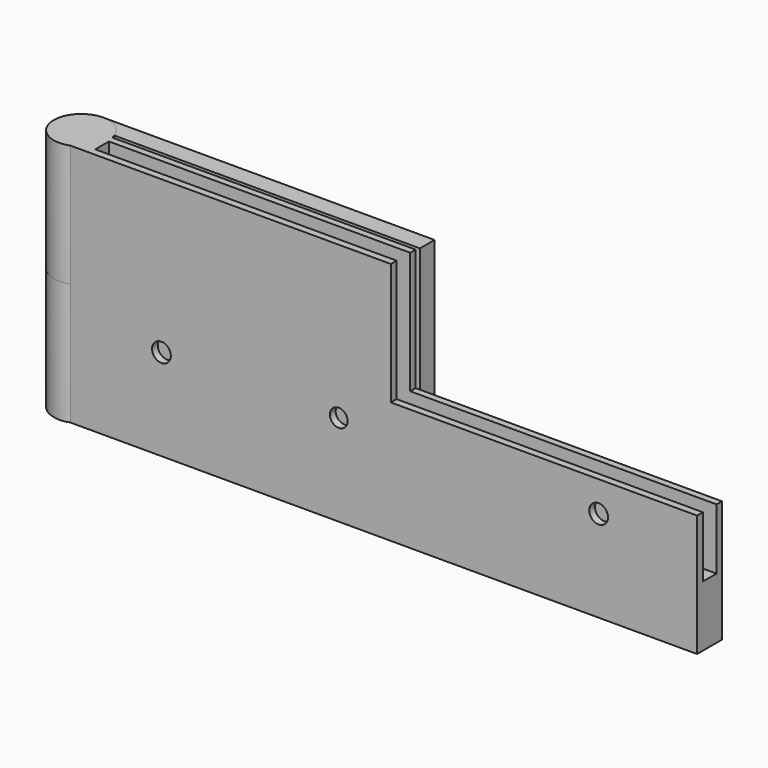
from build123d import *

# Parameters (mm, degrees)
PAD001_DEPTH    = 40
SKETCH002_R     = 4.5
POCKET_DEPTH    = 20
SKETCH003_R     = 2.507414
POCKET001_DEPTH = 15
SKETCH004_W     = 50.2480836792
SKETCH004_H     = 5.09126423
POCKET002_DEPTH = 20
SKETCH005_W     = 99.6843096792
SKETCH005_H     = 2.8
POCKET003_DEPTH = 30
PAD_DEPTH       = 40
SKETCH006_R     = 1.486591
SKETCH006_R_2   = 1.457401
SKETCH006_R_3   = 1.490716
SKETCH006_R_4   = 1.490718
POCKET004_DEPTH = 3.001
CHAMFER_SIZE    = 1
SKETCH007_R     = 1.543073
SKETCH007_R_2   = 1.45762
POCKET005_DEPTH = 8.7097898162


with BuildPart() as obj1:
    # Sketch001 → Pad001 (new body)
    with BuildSketch(Plane.XY):
        with BuildLine():
            ThreePointArc((4.4126226792, 0.8824744139), (-3.9364511507, 2.1804477381), (1.5925100576, -4.2087898162))
            Line((104.4126226792, -4.2087898162), (1.5925100576, -4.2087898162))
            Line((104.4126226792, 0.8824744139), (104.4126226792, -4.2087898162))
            Line((4.4126226792, 0.8824744139), (104.4126226792, 0.8824744139))
        make_face()
    extrude(amount=-PAD001_DEPTH)

    # Sketch002 → Pocket (cut)
    with BuildSketch(Plane(origin=(0, 0, -40), x_dir=(1, 0, 0), z_dir=(0, 0, -1))):
        Circle(SKETCH002_R)
    extrude(amount=-POCKET_DEPTH, mode=Mode.SUBTRACT)

    # Sketch003 → Pocket001 (cut)
    with BuildSketch(Plane(origin=(0, 0, -20), x_dir=(1, 0, 0), z_dir=(0, 0, -1))):
        Circle(SKETCH003_R)
    extrude(amount=-POCKET001_DEPTH, mode=Mode.SUBTRACT)

    # Sketch004 → Pocket002 (cut)
    with BuildSketch(Plane.XY):
        with Locations((79.2885808396, -1.6631577011)):
            Rectangle(SKETCH004_W, SKETCH004_H)
    extrude(amount=-POCKET002_DEPTH, mode=Mode.SUBTRACT)

    # Sketch005 → Pocket003 (cut)
    with BuildSketch(Plane.XY):
        with Locations((54.5704678396, -1.627362)):
            Rectangle(SKETCH005_W, SKETCH005_H)
    extrude(amount=-POCKET003_DEPTH, mode=Mode.SUBTRACT)


with BuildPart() as obj2:
    # Sketch → Pad (new body)
    with BuildSketch(Plane.XY):
        with BuildLine():
            ThreePointArc((-0.0905348327, 4.4990891794), (-2.561379334, -3.6999102567), (4.2429626009, 1.4990891794))
            Line((54.3700859693, 1.4990891794), (4.2429626009, 1.4990891794))
            Line((54.3700859693, 4.4990891794), (54.3700859693, 1.4990891794))
            Line((-0.0905348327, 4.4990891794), (54.3700859693, 4.4990891794))
        make_face()
    extrude(amount=-PAD_DEPTH)

    # Cut: cut obj1
    add(obj1.part, mode=Mode.SUBTRACT)

    # Sketch006 → Pocket004 (cut, through all)
    with BuildSketch(Plane.XZ.offset(-1.4990891794)):
        with Locations((15.5573463219, -7.972067)):
            Circle(SKETCH006_R)
        with Locations((41.9440455, -7.972067)):
            Circle(SKETCH006_R_2)
        with Locations((15.5573463219, -30.132898)):
            Circle(SKETCH006_R_3)
        with Locations((41.9440455, -30.132898)):
            Circle(SKETCH006_R_4)
    extrude(amount=-POCKET004_DEPTH, mode=Mode.SUBTRACT)

    # Chamfer
    chamfer_edges = [obj2.edges().sort_by_distance(p)[0] for p in [
        (14.070755, 1.499089, -7.972067),
        (40.486645, 1.499089, -7.972067),
        (40.453328, 1.499089, -30.132898),
        (14.06663, 1.499089, -30.132898),
    ]]
    chamfer(chamfer_edges, length=CHAMFER_SIZE)


with BuildPart() as pocket005:
    # Pocket005 base: copy of obj1
    add(obj1.part)

    # Sketch007 → Pocket005 (cut, through all)
    with BuildSketch(Plane.XZ.offset(4.2087898162)):
        with Locations((88.258736, -25)):
            Circle(SKETCH007_R)
        with Locations((16.530338, -25)):
            Circle(SKETCH007_R)
        with Locations((45.627708, -25)):
            Circle(SKETCH007_R_2)
    extrude(amount=-POCKET005_DEPTH, mode=Mode.SUBTRACT)


solid = Compound([obj2.part, pocket005.part])
